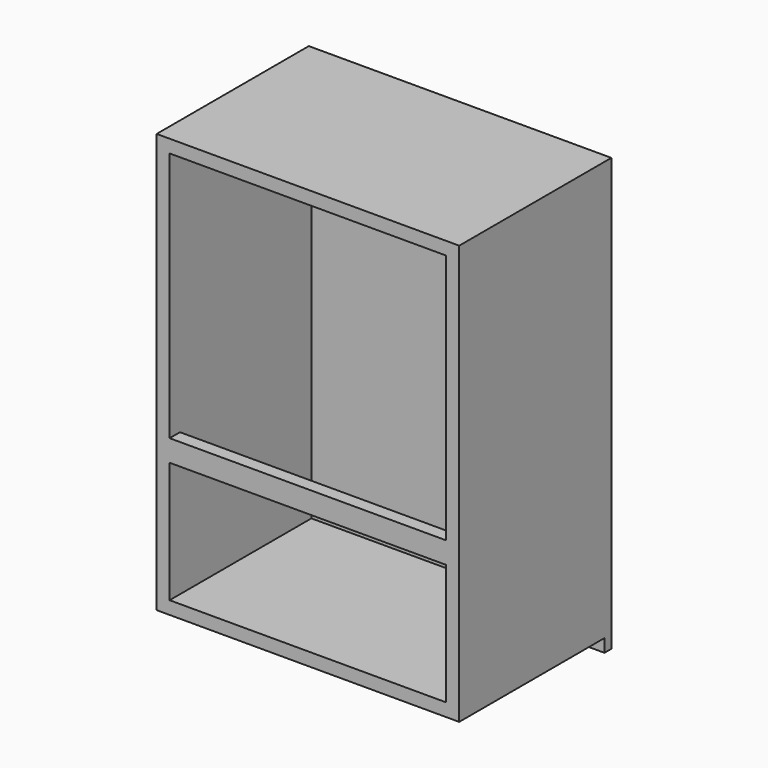
from build123d import *

# Parameters (mm, degrees)
F0_W     = 350
F0_H     = 485
F1_DEPTH = 220
F2_T     = -15
F3_W     = 320
F3_H     = 25
F4_DEPTH = 15
F5_W     = 350
F5_H     = 10
F6_DEPTH = 15


with BuildPart() as f1:
    # F0 (on Front) → F1 (new body)
    with BuildSketch(Plane.XZ):
        with Locations((175, 242.5)):
            Rectangle(F0_W, F0_H)
    extrude(amount=F1_DEPTH)

    # F2
    f2_openings = [f1.faces().sort_by_distance(p)[0] for p in [
        (175, -220, 242.5),
    ]]
    offset(amount=F2_T, openings=f2_openings)

    # F3 (on face) → F4 (join)
    with BuildSketch(Plane.XZ.offset(220)):
        with Locations((175, 167.5)):
            Rectangle(F3_W, F3_H)
    extrude(amount=-F4_DEPTH)

    # F5 (on face) → F6 (join)
    with BuildSketch(Plane(origin=(0, 0, 0), x_dir=(1, 0, 0), z_dir=(0, 0, -1))):
        with Locations((175, 5)):
            Rectangle(F5_W, F5_H)
    extrude(amount=F6_DEPTH)


solid = f1.part
